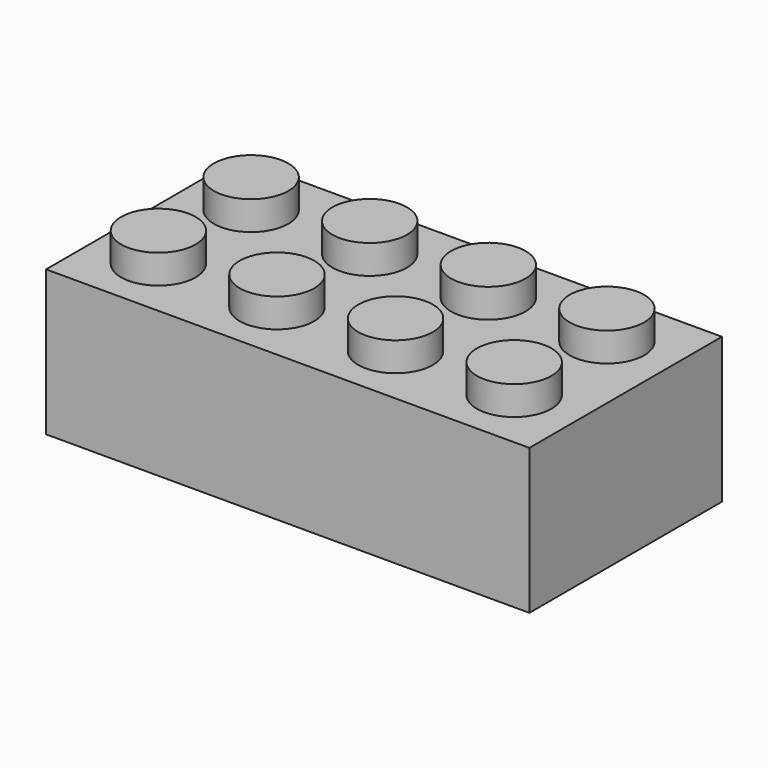
from build123d import *

# Parameters (mm, degrees)
F0_W      = 31.7754
F0_H      = 15.8242
F1_DEPTH  = 9.5504
F2_R      = 2.4511
F4_DEPTH  = 1.905
F3_R      = 2.4511
F5_DEPTH  = 1.905
F6_R      = 2.4511
F8_DEPTH  = 1.905
F7_R      = 2.4511
F9_DEPTH  = 1.905
F10_R     = 2.4511
F11_DEPTH = 1.905
F12_R     = 2.4511
F13_DEPTH = 1.905
F14_W     = 29.1084
F14_H     = 13.3858
F15_DEPTH = 7.62


with BuildPart() as f1:
    # F0 (on Top) → F1 (new body)
    with BuildSketch(Plane.XY):
        Rectangle(F0_W, F0_H)
    extrude(amount=F1_DEPTH)

    # F2 (on face) → F4 (join)
    with BuildSketch(Plane.XY.offset(9.5504)):
        with Locations((-11.7856, 3.81)):
            Circle(F2_R)
    extrude(amount=F4_DEPTH)

    # F3 (on face) → F5 (join)
    with BuildSketch(Plane.XY.offset(9.5504)):
        with Locations((-11.7856, -3.81)):
            Circle(F3_R)
    extrude(amount=F5_DEPTH)

    # F6 (on face) → F8 (join)
    with BuildSketch(Plane.XY.offset(9.5504)):
        with Locations((-3.9878, 3.81)):
            Circle(F6_R)
    extrude(amount=F8_DEPTH)

    # F7 (on face) → F9 (join)
    with BuildSketch(Plane.XY.offset(9.5504)):
        with Locations((-3.9878, -3.81)):
            Circle(F7_R)
    extrude(amount=F9_DEPTH)

    # F10 (on face) → F11 (join)
    with BuildSketch(Plane.XY.offset(9.5504)):
        with Locations((3.81, 3.81)):
            Circle(F10_R)
        with Locations((3.81, -3.81)):
            Circle(F10_R)
    extrude(amount=F11_DEPTH)

    # F12 (on face) → F13 (join)
    with BuildSketch(Plane.XY.offset(9.5504)):
        with Locations((11.6078, 3.81)):
            Circle(F12_R)
        with Locations((11.6078, -3.81)):
            Circle(F12_R)
    extrude(amount=F13_DEPTH)

    # F14 (on face) → F15 (cut)
    with BuildSketch(Plane(origin=(0, 0, 0), x_dir=(1, 0, 0), z_dir=(0, 0, -1))):
        Rectangle(F14_W, F14_H)
    extrude(amount=-F15_DEPTH, mode=Mode.SUBTRACT)


solid = f1.part
